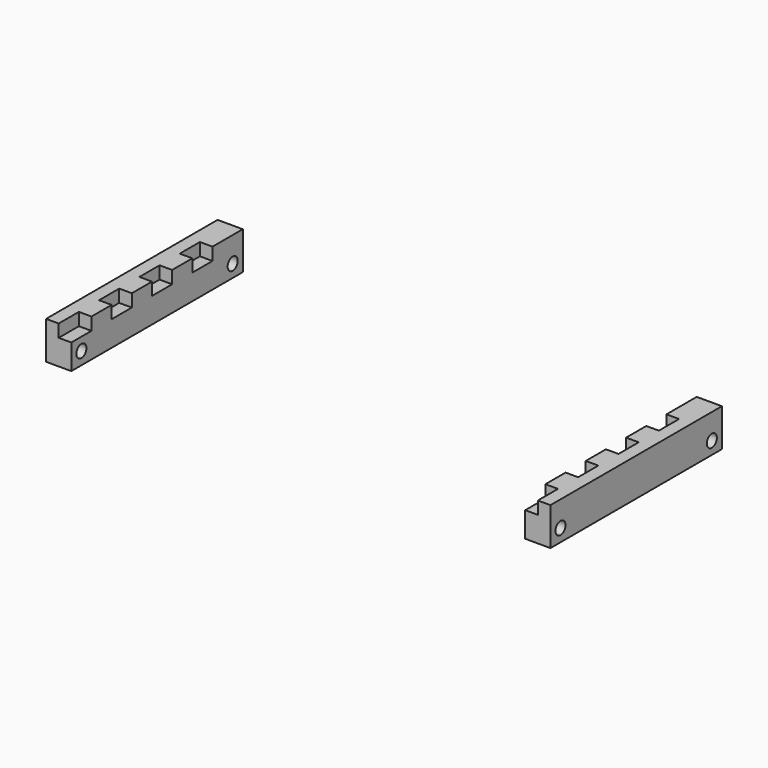
from build123d import *

# Parameters (mm, degrees)
F0_W      = 2000
F0_H      = 850
F1_DEPTH  = 100
F2_W      = 100
F2_H      = 850
F3_DEPTH  = 100
F4_W      = 1600
F4_H      = 850
F5_DEPTH  = 120
F6_R      = 25
F7_DEPTH  = 150
F8_R      = 25
F9_DEPTH  = 100
F10_DEPTH = 50
F11_DEPTH = 50
F12_W     = 100
F12_H     = 50
F13_DEPTH = 1107
F14_W     = 100
F14_H     = 50
F15_DEPTH = 1000
F16_W     = 50
F16_H     = 100
F17_DEPTH = 50
F18_W     = 50
F18_H     = 100
F19_DEPTH = 50


with BuildPart() as f1:
    # F0 (on Top) → F1 (new body)
    with BuildSketch(Plane.XY):
        Rectangle(F0_W, F0_H)
    extrude(amount=F1_DEPTH)

    # F2 (on face) → F3 (join)
    with BuildSketch(Plane(origin=(0, 0, 0), x_dir=(1, 0, 0), z_dir=(0, 0, -1))):
        with Locations((-950, 0)):
            Rectangle(F2_W, F2_H)
        with Locations((950, 0)):
            Rectangle(F2_W, F2_H)
    extrude(amount=F3_DEPTH)

    # F4 (on face) → F5 (cut)
    with BuildSketch(Plane.XY.offset(100)):
        Rectangle(F4_W, F4_H)
    extrude(amount=-F5_DEPTH, mode=Mode.SUBTRACT)

    # F6 (on face) → F7 (cut)
    with BuildSketch(Plane.YZ.offset(-900)):
        with Locations((-375, -50)):
            Circle(F6_R)
        with Locations((375, -50)):
            Circle(F6_R)
    extrude(amount=-F7_DEPTH, mode=Mode.SUBTRACT)

    # F8 (on face) → F9 (cut)
    with BuildSketch(Plane(origin=(900, 0, 0), x_dir=(0, -1, 0), z_dir=(-1, 0, 0))):
        with Locations((375, -50)):
            Circle(F8_R)
        with Locations((-375, -50)):
            Circle(F8_R)
    extrude(amount=-F9_DEPTH, mode=Mode.SUBTRACT)

    # F10 (cut): a face of the model
    f10_faces = [f1.faces().sort_by_distance(p)[0] for p in [
        (-900, 0, 100),
    ]]
    extrude(f10_faces, amount=-F10_DEPTH, mode=Mode.SUBTRACT)

    # F11 (cut): a face of the model
    f11_faces = [f1.faces().sort_by_distance(p)[0] for p in [
        (900, 0, 100),
    ]]
    extrude(f11_faces, amount=-F11_DEPTH, mode=Mode.SUBTRACT)

    # F12 (on face) → F13 (cut)
    with BuildSketch(Plane.XZ.offset(425)):
        with Locations((850, 25)):
            Rectangle(F12_W, F12_H)
    extrude(amount=-F13_DEPTH, mode=Mode.SUBTRACT)

    # F14 (on face) → F15 (cut)
    with BuildSketch(Plane.XZ.offset(425)):
        with Locations((-850, 25)):
            Rectangle(F14_W, F14_H)
    extrude(amount=-F15_DEPTH, mode=Mode.SUBTRACT)

    # F16 (on face) → F17 (cut)
    with BuildSketch(Plane.XY.offset(50)):
        with Locations((-925, -375)):
            Rectangle(F16_W, F16_H)
        with Locations((-925, -175)):
            Rectangle(F16_W, F16_H)
        with Locations((-925, 25)):
            Rectangle(F16_W, F16_H)
        with Locations((-925, 225)):
            Rectangle(F16_W, F16_H)
    extrude(amount=-F17_DEPTH, mode=Mode.SUBTRACT)

    # F18 (on face) → F19 (cut)
    with BuildSketch(Plane.XY.offset(50)):
        with Locations((925, -375)):
            Rectangle(F18_W, F18_H)
        with Locations((925, -175)):
            Rectangle(F18_W, F18_H)
        with Locations((925, 25)):
            Rectangle(F18_W, F18_H)
        with Locations((925, 225)):
            Rectangle(F18_W, F18_H)
    extrude(amount=-F19_DEPTH, mode=Mode.SUBTRACT)


solid = f1.part
